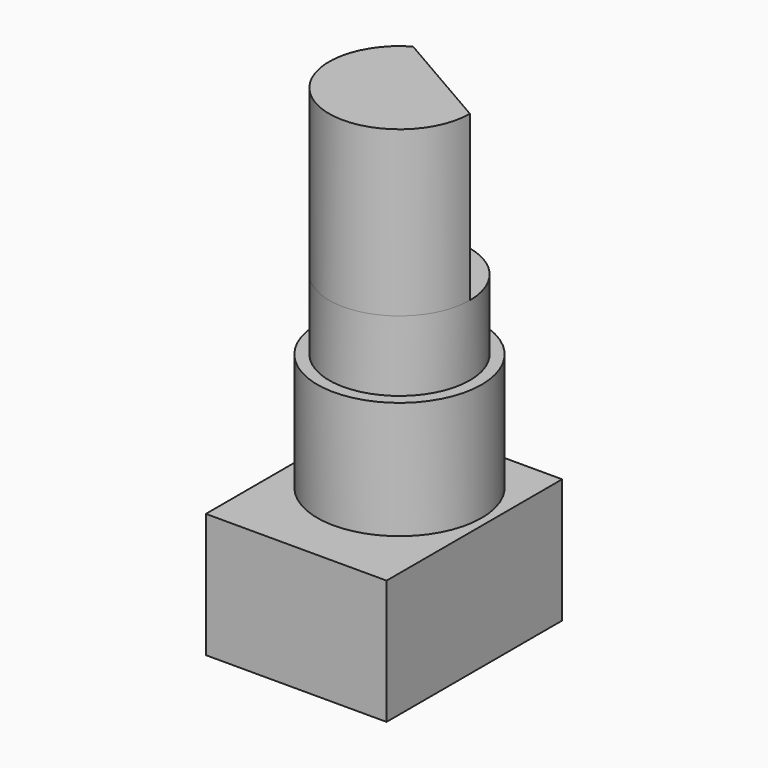
from build123d import *

# Parameters (mm, degrees)
SKETCH002_W  = 7.7
SKETCH002_H  = 9.35
PAD_DEPTH    = 1
SKETCH003_W  = 7.7
SKETCH003_H  = 9.35
PAD001_DEPTH = 2.5
SKETCH004_W  = 7.7
SKETCH004_H  = 9.35
PAD002_DEPTH = 1.8
SKETCH005_R  = 3.5
PAD003_DEPTH = 5
SKETCH006_R  = 3.000001
PAD004_DEPTH = 3
PAD005_DEPTH = 7


with BuildPart() as part:
    # Sketch002 (on DatumPlane) → Pad (new body)
    with BuildSketch(Plane.XY):
        with Locations((0, -0.825)):
            Rectangle(SKETCH002_W, SKETCH002_H)
    extrude(amount=PAD_DEPTH)

    # Sketch003 (on DatumPlane) → Pad001 (join)
    with BuildSketch(Plane.XY.offset(1)):
        with Locations((0, -0.825)):
            Rectangle(SKETCH003_W, SKETCH003_H)
    extrude(amount=PAD001_DEPTH)

    # Sketch004 (on DatumPlane) → Pad002 (join)
    with BuildSketch(Plane.XY.offset(3.5)):
        with Locations((0, -0.825)):
            Rectangle(SKETCH004_W, SKETCH004_H)
    extrude(amount=PAD002_DEPTH)

    # Sketch005 (on DatumPlane) → Pad003 (join)
    with BuildSketch(Plane.XY.offset(5.3)):
        Circle(SKETCH005_R)
    extrude(amount=PAD003_DEPTH)

    # Sketch006 (on DatumPlane) → Pad004 (join)
    with BuildSketch(Plane.XY.offset(10.3)):
        Circle(SKETCH006_R)
    extrude(amount=PAD004_DEPTH)

    # Sketch007 (on DatumPlane) → Pad005 (join)
    with BuildSketch(Plane.XY.offset(13.3)):
        with BuildLine():
            ThreePointArc((-1.500001, 2.598077), (-1.500001, -2.598077), (3.000001, -1e-06))
            Line((-1.500001, 2.598077), (3.000001, -1e-06))
        make_face()
    extrude(amount=PAD005_DEPTH)


solid = part.part
